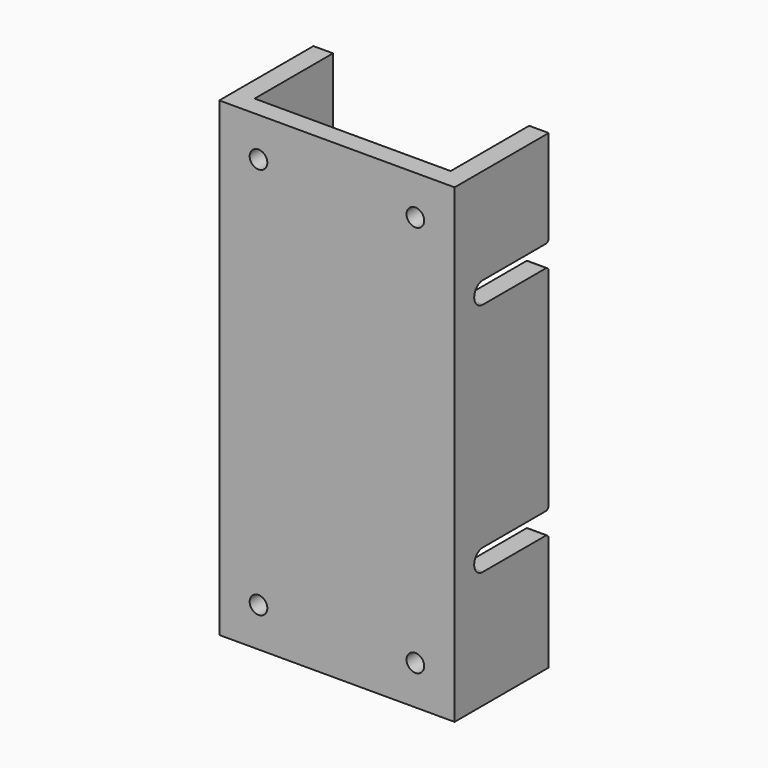
from build123d import *

# Parameters (mm, degrees)
F0_W     = 60
F0_H     = 120
F0_R     = 2.25
F1_DEPTH = 5
F2_W     = 5
F2_H     = 120
F3_DEPTH = 25
F4_W     = 21
F4_H     = 5.5
F5_DEPTH = 72
F6_R     = 1


with BuildPart() as f1:
    # F0 (on Front) → F1 (new body)
    with BuildSketch(Plane.XZ):
        Rectangle(F0_W, F0_H)
        with Locations((-20, -50)):
            Circle(F0_R, mode=Mode.SUBTRACT)
        with Locations((20, -50)):
            Circle(F0_R, mode=Mode.SUBTRACT)
        with Locations((-20, 50)):
            Circle(F0_R, mode=Mode.SUBTRACT)
        with Locations((20, 50)):
            Circle(F0_R, mode=Mode.SUBTRACT)
    extrude(amount=F1_DEPTH)

    # F2 (on face) → F3 (join)
    with BuildSketch(Plane(origin=(0, 0, 0), x_dir=(-1, 0, 0), z_dir=(0, 1, 0))):
        with Locations((-27.5, 0)):
            Rectangle(F2_W, F2_H)
        with Locations((27.5, 0)):
            Rectangle(F2_W, F2_H)
    extrude(amount=F3_DEPTH)

    # F4 (on face) → F5 (cut)
    with BuildSketch(Plane(origin=(-30, 0, 0), x_dir=(0, -1, 0), z_dir=(-1, 0, 0))):
        with Locations((-14.5, 32.75)):
            Rectangle(F4_W, F4_H)
        with BuildLine():
            ThreePointArc((-4, 30), (-1.25, 32.75), (-4, 35.5))
            Line((-4, 35.5), (-4, 30))
        make_face()
        with Locations((-14.5, -27.25)):
            Rectangle(F4_W, F4_H)
        with BuildLine():
            ThreePointArc((-4, -30), (-1.25, -27.25), (-4, -24.5))
            Line((-4, -24.5), (-4, -30))
        make_face()
    extrude(amount=-F5_DEPTH, mode=Mode.SUBTRACT)

    # F6
    f6_edges = [f1.edges().sort_by_distance(p)[0] for p in [
        (-27.5, 25, 35.5),
        (27.5, 25, 30),
        (27.5, 25, 35.5),
        (-27.5, 25, 30),
        (27.5, 25, -24.5),
        (-27.5, 25, -24.5),
        (-27.5, 25, -30),
        (27.5, 25, -30),
    ]]
    fillet(f6_edges, radius=F6_R)


solid = f1.part
